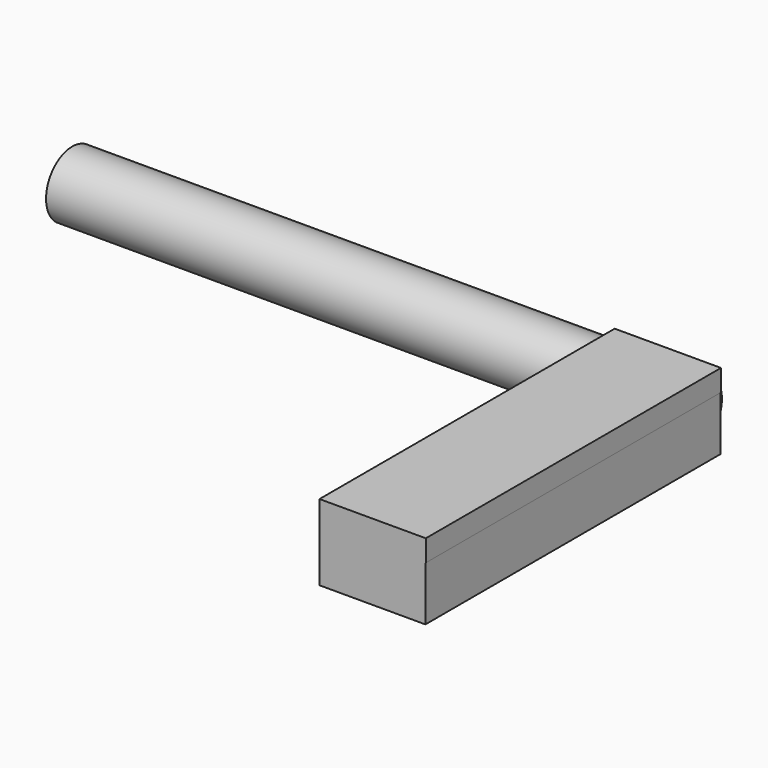
from build123d import *

# Parameters (mm, degrees)
F1_R     = 2.251249
F2_DEPTH = 42.926
F3_DEPTH = 25.4


with BuildPart() as f2:
    # F1 (on Right) → F2 (new body)
    with BuildSketch(Plane.YZ):
        Circle(F1_R)
    extrude(amount=F2_DEPTH)

    # F0 (on Front) → F3 (join)
    with BuildSketch(Plane.XZ):
        Polygon((44.636123, 0), (41.285951, 0), (37.344571, 0), (37.344571, -1.872155), (44.636123, -1.872155), align=None)
        Polygon((37.344571, 0), (41.285951, 0), (44.636123, 0), (44.636123, 1.872155), (37.344571, 1.872155), align=None)
        Polygon((37.344571, 3.356544), (37.344571, 1.872155), (44.636123, 1.872155), (44.661563, 1.872155), (44.661563, 3.356544), align=None)
    extrude(amount=F3_DEPTH)


solid = f2.part
